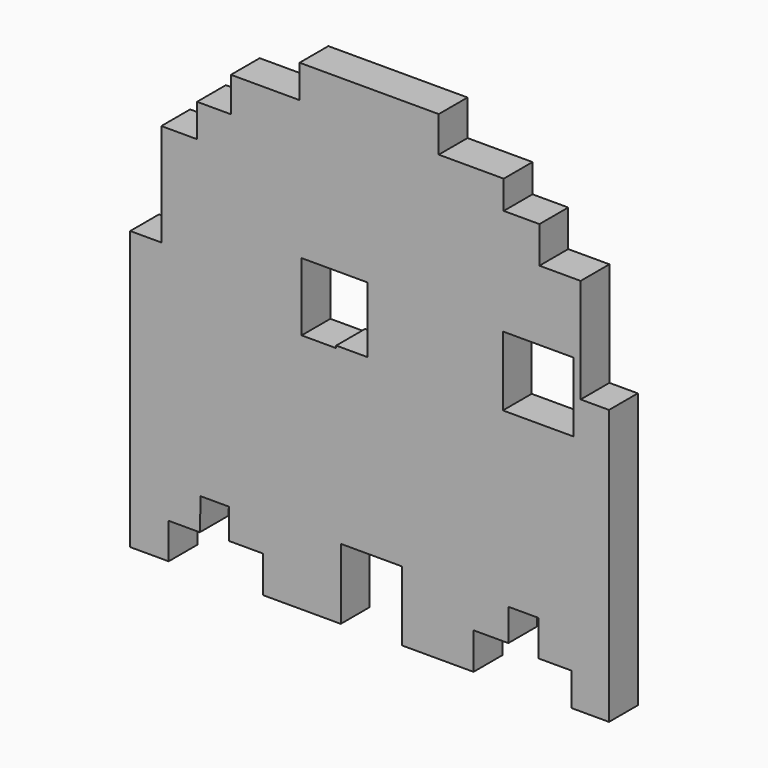
from build123d import *

# Parameters (mm, degrees)
F1_DEPTH = 5.334


with BuildPart() as f1:
    # F0 (on Front) → F1 (new body)
    with BuildSketch(Plane.XZ):
        Polygon((-28.434427, -29.588092), (-28.298704, -24.837712), (-24.091221, -24.837712), (-24.091221, -29.316641), (-19.06939, -29.316641), (-19.06939, -34.745649), (-7.532748, -34.745649), (-7.532748, -24.29481), (1.560839, -24.29481), (1.560839, -34.609925), (12.147406, -34.609925), (12.147406, -29.180918), (17.304963, -29.180918), (17.304963, -24.430534), (21.783892, -24.430534), (21.783892, -29.723817), (26.67, -29.723817), (26.67, -34.609925), (32.234732, -34.609925), (32.234732, 6.107633), (28.027251, 6.107633), (28.027251, 21.580307), (21.919617, 21.580307), (21.919617, 27.009314), (16.626336, 27.009314), (16.626336, 31.216795), (6.989847, 31.216795), (6.989847, 36.510076), (-13.640381, 36.510076), (-13.640381, 31.623971), (-23.819771, 31.623971), (-23.819771, 26.466411), (-28.841604, 26.466411), (-28.841604, 21.580307), (-34.134887, 21.580307), (-34.134887, 6.379084), (-38.749542, 6.379084), (-38.749542, -34.881376), (-33.049084, -34.881376), (-33.049084, -29.588092), align=None)
        Polygon((-18.79794, 21.580307), (-18.119313, 21.580307), (-7.939924, 21.580307), (-7.939924, 16.558474), (-3.596718, 16.558474), (-3.596718, 11.104424), (-3.596718, 1.357252), (-8.211374, 1.357252), (-8.211374, 1.016588), (-8.211374, -3.66458), (-18.526489, -3.66458), (-18.526489, 1.357252), (-23.819771, 1.357252), (-23.819771, 16.151298), (-18.79794, 16.151298), align=None, mode=Mode.SUBTRACT)
        Polygon((6.521792, 1.090871), (6.521792, 15.899813), (6.521792, 16.182272), (11.606061, 16.182272), (11.606061, 21.266542), (21.976355, 21.266542), (21.976355, 16.222624), (26.939571, 16.222624), (26.939571, 11.232948), (26.939571, 0.929466), (22.016706, 0.929466), (22.016706, -4.195155), (11.525358, -4.195155), (11.525358, 1.090871), align=None, mode=Mode.SUBTRACT)
        Polygon((-7.939924, 21.580307), (-18.119313, 21.580307), (-18.79794, 21.580307), (-18.79794, 16.151298), (-23.819771, 16.151298), (-23.819771, 1.357252), (-18.526489, 1.357252), (-18.526489, -3.66458), (-8.211374, -3.66458), (-8.211374, 1.016588), (-13.341749, 1.016588), (-13.341749, 11.104424), (-3.596718, 11.104424), (-3.596718, 16.558474), (-7.939924, 16.558474), align=None)
        Polygon((6.521792, 16.182272), (6.521792, 15.899813), (6.521792, 1.090871), (11.525358, 1.090871), (11.525358, -4.195155), (22.016706, -4.195155), (22.016706, 0.929466), (16.504878, 0.929466), (16.504878, 11.232948), (26.939571, 11.232948), (26.939571, 16.222624), (21.976355, 16.222624), (21.976355, 21.266542), (11.606061, 21.266542), (11.606061, 16.182272), align=None)
    extrude(amount=F1_DEPTH)


solid = f1.part
